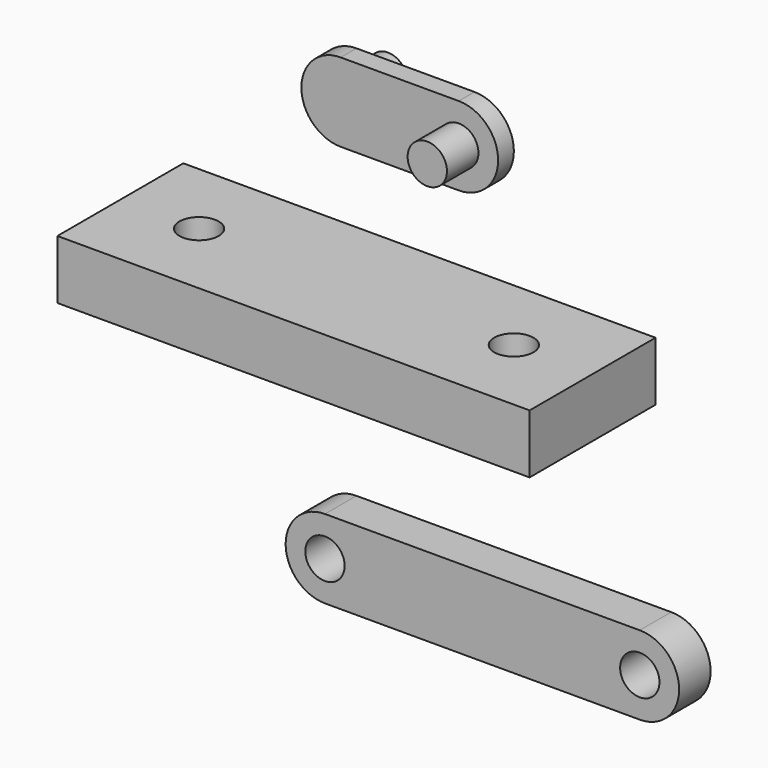
from build123d import *

# Parameters (mm, degrees)
F0_W     = 120
F0_H     = 40
F0_R     = 5
F1_DEPTH = 15
F2_R     = 5
F3_DEPTH = 5
F4_DEPTH = 15
F5_DEPTH = 10
F6_R     = 5
F7_DEPTH = 10


with BuildPart() as f1:
    # F0 (on Top) → F1 (new body)
    with BuildSketch(Plane.XY):
        Rectangle(F0_W, F0_H)
        with Locations((-40, 0)):
            Circle(F0_R, mode=Mode.SUBTRACT)
        with Locations((40, 0)):
            Circle(F0_R, mode=Mode.SUBTRACT)
    extrude(amount=-F1_DEPTH)


with BuildPart() as f3:
    # F2 (on Front) → F3 (new body)
    with BuildSketch(Plane.XZ):
        with BuildLine():
            Line((30, 53.35892), (0, 53.35892))
            ThreePointArc((0, 53.35892), (-10, 43.35892), (0, 33.35892))
            Line((0, 33.35892), (30, 33.35892))
            ThreePointArc((30, 33.35892), (40, 43.35892), (30, 53.35892))
        make_face()
        with Locations((0, 43.35892)):
            Circle(F2_R, mode=Mode.SUBTRACT)
        with Locations((30, 43.35892)):
            Circle(F2_R, mode=Mode.SUBTRACT)
        with Locations((30, 43.35892)):
            Circle(F2_R)
        with Locations((0, 43.35892)):
            Circle(F2_R)
    extrude(amount=F3_DEPTH)

    # F2 (on Front) → F4 (join)
    with BuildSketch(Plane.XZ):
        with Locations((30, 43.35892)):
            Circle(F2_R)
    extrude(amount=F4_DEPTH)

    # F2 (on Front) → F5 (join)
    with BuildSketch(Plane.XZ):
        with Locations((0, 43.35892)):
            Circle(F2_R)
    extrude(amount=-F5_DEPTH)


with BuildPart() as f7:
    # F6 (on Front) → F7 (new body)
    with BuildSketch(Plane.XZ):
        with BuildLine():
            Line((80, -46.753127), (0, -46.753127))
            ThreePointArc((0, -46.753127), (-10, -56.753127), (0, -66.753127))
            Line((0, -66.753127), (80, -66.753127))
            ThreePointArc((80, -66.753127), (90, -56.753127), (80, -46.753127))
        make_face()
        with Locations((0, -56.753127)):
            Circle(F6_R, mode=Mode.SUBTRACT)
        with Locations((80, -56.753127)):
            Circle(F6_R, mode=Mode.SUBTRACT)
    extrude(amount=F7_DEPTH)


solid = Compound([f1.part, f3.part, f7.part])
